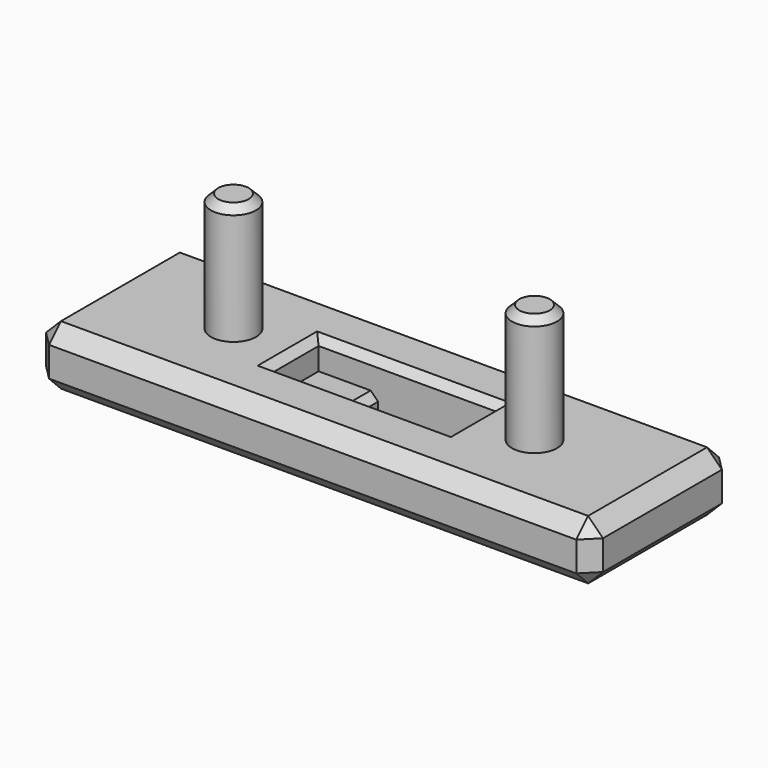
from build123d import *

# Parameters (mm, degrees)
F0_W     = 59.490514
F0_H     = 19.05
F1_DEPTH = 6.35
F2_R     = 2.413
F3_DEPTH = 12.7
F4_W     = 19.05
F4_H     = 6.35
F5_DEPTH = 3.175
F6_W     = 12.7
F6_H     = 6.35
F7_DEPTH = 19.051
F8_SIZE  = 0.79375
F9_SIZE  = 1.5875
F10_SIZE = 0.79375


with BuildPart() as f1:
    # F0 (on Top) → F1 (new body)
    with BuildSketch(Plane.XY):
        Rectangle(F0_W, F0_H)
    extrude(amount=F1_DEPTH)

    # F2 (on face) → F3 (join)
    with BuildSketch(Plane.XY.offset(6.35)):
        with Locations((-16.0782, 0)):
            Circle(F2_R)
        with Locations((16.0782, 0)):
            Circle(F2_R)
    extrude(amount=F3_DEPTH)

    # F4 (on face) → F5 (cut)
    with BuildSketch(Plane.XY.offset(6.35)):
        Rectangle(F4_W, F4_H)
    extrude(amount=-F5_DEPTH, mode=Mode.SUBTRACT)

    # F6 (on face) → F7 (cut, through all)
    with BuildSketch(Plane(origin=(0, 0, 0), x_dir=(1, 0, 0), z_dir=(0, 0, -1))):
        with Locations((3.175, 0)):
            Rectangle(F6_W, F6_H)
    extrude(amount=-F7_DEPTH, mode=Mode.SUBTRACT)

    # F8
    f8_edges = [f1.edges().sort_by_distance(p)[0] for p in [
        (-3.175, 0, 3.175),
        (-3.175, 0, 0),
        (0, 3.175, 6.35),
        (9.525, 0, 6.35),
        (0, -3.175, 6.35),
        (-9.525, 0, 6.35),
    ]]
    chamfer(f8_edges, length=F8_SIZE)

    # F9
    f9_edges = [f1.edges().sort_by_distance(p)[0] for p in [
        (-29.745257, -9.525, 3.175),
        (29.745257, -9.525, 3.175),
        (0, -9.525, 0),
        (0, -9.525, 6.35),
        (29.745257, 9.525, 3.175),
        (29.745257, 0, 0),
        (29.745257, 0, 6.35),
        (-29.745257, 9.525, 3.175),
        (0, 9.525, 0),
        (0, 9.525, 6.35),
        (-29.745257, 0, 0),
        (-29.745257, 0, 6.35),
    ]]
    chamfer(f9_edges, length=F9_SIZE)

    # F10
    f10_edges = [f1.edges().sort_by_distance(p)[0] for p in [
        (13.6652, 0, 19.05),
        (-18.4912, 0, 19.05),
    ]]
    chamfer(f10_edges, length=F10_SIZE)


solid = f1.part
